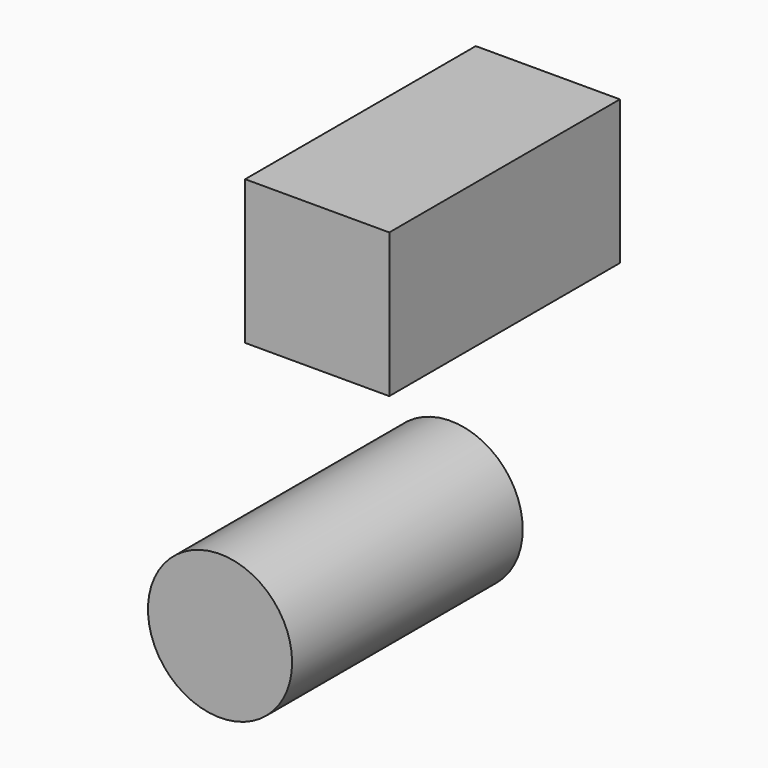
from build123d import *

# Parameters (mm, degrees)
F1_DEPTH = 50.8
F2_R     = 12.7
F3_DEPTH = 50.8


with BuildPart() as f1:
    # F0 (on Front) → F1 (new body)
    with BuildSketch(Plane.XZ):
        Polygon((-6.110549, 19.477375), (-6.107518, 44.877375), (-31.507518, 44.877375), (-31.507518, 19.477375), align=None)
    extrude(amount=F1_DEPTH)


with BuildPart() as f3:
    # F2 (on Front) → F3 (new body)
    with BuildSketch(Plane.XZ):
        with Locations((-35.932552, -27.410926)):
            Circle(F2_R)
    extrude(amount=F3_DEPTH)


solid = Compound([f1.part, f3.part])
